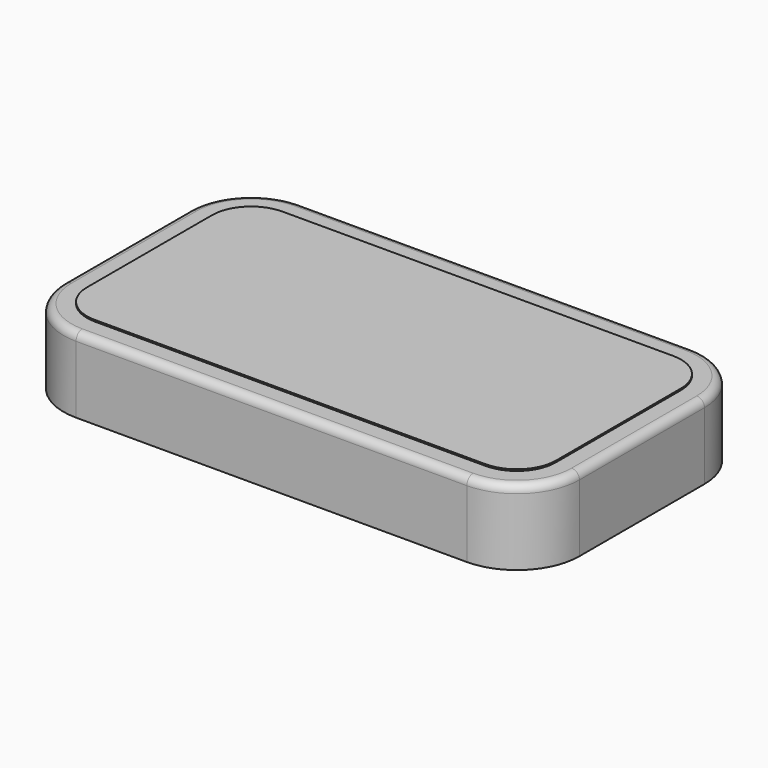
from build123d import *

# Parameters (mm, degrees)
F1_DEPTH      = 1.6
F2_DEPTH      = 3.2
F3_DEPTH      = 1.2
F4_DEPTH      = 4.6
F4_DEPTH_BACK = 5
F5_R          = 1
F6_R          = 11.5899094466
F7_DEPTH      = 5
F8_SIZE       = 1
F9_R          = 1.7233060419
F10_DEPTH     = 1
F11_DEPTH     = 0.1


with BuildPart() as f1:
    # F0 (on Top) → F1 (new body)
    with BuildSketch(Plane.XY):
        with BuildLine():
            ThreePointArc((30, 10), (28.5355339059, 13.5355339059), (25, 15))
            Line((25, 15), (-25, 15))
            ThreePointArc((-25, 15), (-28.5355339059, 13.5355339059), (-30, 10))
            Line((-30, 10), (-30, -10))
            ThreePointArc((-30, -10), (-28.5355339059, -13.5355339059), (-25, -15))
            Line((-25, -15), (25, -15))
            ThreePointArc((25, -15), (28.5355339059, -13.5355339059), (30, -10))
            Line((30, -10), (30, 10))
        make_face()
    extrude(amount=F1_DEPTH)


with BuildPart() as f2:
    # F2 (new): a face of the model
    f2_faces = [f1.part.faces().sort_by_distance(p)[0] for p in [
        (0, 0, 1.6),
    ]]
    extrude(f2_faces, amount=F2_DEPTH)

    # F3 (cut): a face of the model
    f3_faces = [f2.faces().sort_by_distance(p)[0] for p in [
        (0, 0, 1.6),
    ]]
    extrude(f3_faces, amount=-F3_DEPTH, mode=Mode.SUBTRACT)


with BuildPart() as f4:
    # F0 (on Top) → F4 (new body, two sides)
    with BuildSketch(Plane.XY) as f4_sk:
        with BuildLine():
            Line((33, -10), (33, 10))
            ThreePointArc((33, 10), (30.6568542495, 15.6568542495), (25, 18))
            Line((25, 18), (-25, 18))
            ThreePointArc((-25, 18), (-30.6568542495, 15.6568542495), (-33, 10))
            Line((-33, 10), (-33, -10))
            ThreePointArc((-33, -10), (-30.6568542495, -15.6568542495), (-25, -18))
            Line((-25, -18), (25, -18))
            ThreePointArc((25, -18), (30.6568542495, -15.6568542495), (33, -10))
        make_face()
        with BuildLine():
            Line((-25, 15), (25, 15))
            ThreePointArc((25, 15), (28.5355339059, 13.5355339059), (30, 10))
            Line((30, 10), (30, -10))
            ThreePointArc((30, -10), (28.5355339059, -13.5355339059), (25, -15))
            Line((25, -15), (-25, -15))
            ThreePointArc((-25, -15), (-28.5355339059, -13.5355339059), (-30, -10))
            Line((-30, -10), (-30, 10))
            ThreePointArc((-30, 10), (-28.5355339059, 13.5355339059), (-25, 15))
        make_face(mode=Mode.SUBTRACT)
    extrude(amount=F4_DEPTH)
    extrude(f4_sk.sketch, amount=-F4_DEPTH_BACK)

    # F5
    f5_edges = [f4.edges().sort_by_distance(p)[0] for p in [
        (33, 0, 4.6),
    ]]
    fillet(f5_edges, radius=F5_R)


with BuildPart() as f7:
    # F6 (on face) → F7 (new body)
    with BuildSketch(Plane.XY):
        with Locations((-17.8636480123, 0)):
            Circle(F6_R)
    extrude(amount=-F7_DEPTH)

    # F8
    f8_edges = [f7.edges().sort_by_distance(p)[0] for p in [
        (-29.453557, 0, -5),
    ]]
    chamfer(f8_edges, length=F8_SIZE)


with BuildPart() as f10:
    # F9 (on face) → F10 (new body)
    with BuildSketch(Plane.XY.offset(1.6)):
        with Locations((-21.7006991855, 8.4104844814)):
            Circle(F9_R)
    extrude(amount=F10_DEPTH)


with BuildPart() as f10b:
    # F9 (on face) → F10, piece 2 (new body)
    with BuildSketch(Plane.XY.offset(1.6)):
        with Locations((-0.1008850596, 8.4230364611)):
            Circle(F9_R)
    extrude(amount=F10_DEPTH)


with BuildPart() as f10c:
    # F9 (on face) → F10, piece 3 (new body)
    with BuildSketch(Plane.XY.offset(1.6)):
        with Locations((21.4989290663, 8.4355884408)):
            Circle(F9_R)
    extrude(amount=F10_DEPTH)


with BuildPart() as f10d:
    # F9 (on face) → F10, piece 4 (new body)
    with BuildSketch(Plane.XY.offset(1.6)):
        with Locations((-21.5827859859, -8.5330907029)):
            Circle(F9_R)
    extrude(amount=F10_DEPTH)


with BuildPart() as f10e:
    # F9 (on face) → F10, piece 5 (new body)
    with BuildSketch(Plane.XY.offset(1.6)):
        with Locations((0.01702814, -8.5205387232)):
            Circle(F9_R)
    extrude(amount=F10_DEPTH)


with BuildPart() as f10f:
    # F9 (on face) → F10, piece 6 (new body)
    with BuildSketch(Plane.XY.offset(1.6)):
        with Locations((21.6168422659, -8.5079867435)):
            Circle(F9_R)
    extrude(amount=F10_DEPTH)


with BuildPart() as f11:
    # F11 (new): a face of the model
    f11_faces = [f2.part.faces().sort_by_distance(p)[0] for p in [
        (0, 0, 2.8),
    ]]
    extrude(f11_faces, amount=F11_DEPTH)


solid = Compound([f1.part, f2.part, f4.part, f7.part, f10.part, f10b.part, f10c.part, f10d.part, f10e.part, f10f.part, f11.part])
